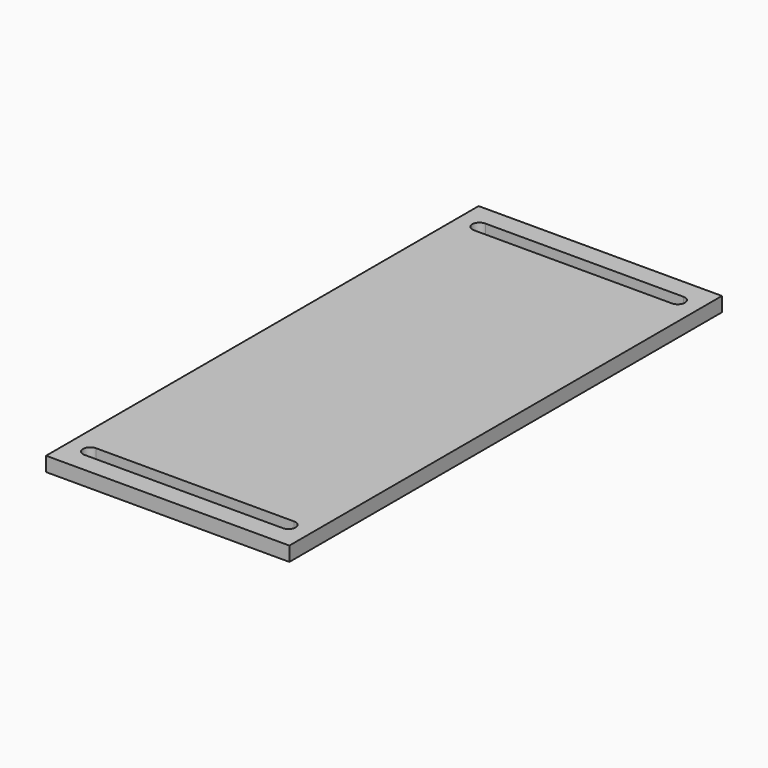
from build123d import *

# Parameters (mm, degrees)
F0_W     = 135
F0_H     = 300
F1_DEPTH = 8
F3_DEPTH = 50
F5_D     = 12
F5_DEPTH = 5
F5_TIP   = 3.6051637142
F7_DEPTH = 25


with BuildPart() as f1:
    # F0 (on Top) → F1 (new body)
    with BuildSketch(Plane.XY):
        Rectangle(F0_W, F0_H)
    extrude(amount=F1_DEPTH)

    # F2 (on Right) → F3 (join, symmetric)
    with BuildSketch(Plane.YZ):
        Polygon((0, -10), (0, 0), (-7.9979246179, 0), (-15, -10), align=None)
        Polygon((7.9979246179, 0), (0, 0), (0, -10), (15, -10), align=None)
    extrude(amount=F3_DEPTH, both=True)

    # F5
    with Locations(Plane(origin=(0, 0, -10), x_dir=(1, 0, 0), z_dir=(0, 0, -1))):
        with Locations((0, 0)):
            Hole(F5_D / 2, depth=F5_DEPTH)
            with Locations((0, 0, -(F5_DEPTH + F5_TIP / 2))):  # 118° drill point
                Cone(0, F5_D / 2, F5_TIP, mode=Mode.SUBTRACT)

    # F6 (on face) → F7 (cut)
    with BuildSketch(Plane.XY.offset(8)):
        with BuildLine():
            ThreePointArc((59, -135), (57.8284271247, -132.1715728753), (55, -131))
            Line((55, -131), (55, -139))
            ThreePointArc((55, -139), (57.8284271247, -137.8284271247), (59, -135))
        make_face()
        with BuildLine():
            Line((55, -139), (55, -131))
            ThreePointArc((55, -131), (51, -135), (55, -139))
        make_face()
        with BuildLine():
            Line((55, -131), (-55, -131))
            ThreePointArc((-55, -131), (-52.1715728753, -132.1715728753), (-51, -135))
            ThreePointArc((-51, -135), (-52.1715728753, -137.8284271247), (-55, -139))
            Line((-55, -139), (55, -139))
            ThreePointArc((55, -139), (51, -135), (55, -131))
        make_face()
        with BuildLine():
            ThreePointArc((-51, -135), (-52.1715728753, -132.1715728753), (-55, -131))
            Line((-55, -131), (-55, -139))
            ThreePointArc((-55, -139), (-52.1715728753, -137.8284271247), (-51, -135))
        make_face()
        with BuildLine():
            Line((-55, -139), (-55, -131))
            ThreePointArc((-55, -131), (-59, -135), (-55, -139))
        make_face()
        with BuildLine():
            Line((55, 139), (55, 131))
            ThreePointArc((55, 131), (57.8284271247, 132.1715728753), (59, 135))
            ThreePointArc((59, 135), (57.8284271247, 137.8284271247), (55, 139))
        make_face()
        with BuildLine():
            ThreePointArc((55, 139), (51, 135), (55, 131))
            Line((55, 131), (55, 139))
        make_face()
        with BuildLine():
            ThreePointArc((-51, 135), (-52.1715728753, 132.1715728753), (-55, 131))
            Line((-55, 131), (55, 131))
            ThreePointArc((55, 131), (51, 135), (55, 139))
            Line((55, 139), (-55, 139))
            ThreePointArc((-55, 139), (-52.1715728753, 137.8284271247), (-51, 135))
        make_face()
        with BuildLine():
            ThreePointArc((-55, 139), (-59, 135), (-55, 131))
            Line((-55, 131), (-55, 139))
        make_face()
        with BuildLine():
            Line((-55, 139), (-55, 131))
            ThreePointArc((-55, 131), (-52.1715728753, 132.1715728753), (-51, 135))
            ThreePointArc((-51, 135), (-52.1715728753, 137.8284271247), (-55, 139))
        make_face()
    extrude(amount=-F7_DEPTH, mode=Mode.SUBTRACT)


solid = f1.part
